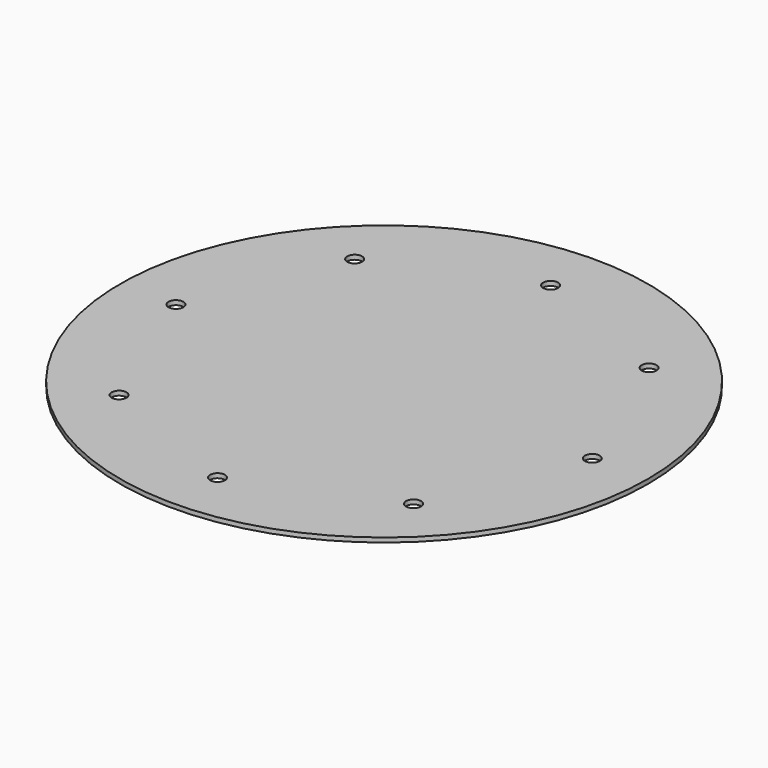
from build123d import *

# Parameters (mm, degrees)
F0_R     = 355
F0_R_2   = 10
F1_DEPTH = 6


with BuildPart() as f1:
    # F0 (on Top) → F1 (new body)
    with BuildSketch(Plane.XY):
        Circle(F0_R)
        with Locations((-197.989899, -197.989899)):
            Circle(F0_R_2, mode=Mode.SUBTRACT)
        with Locations((0, -280)):
            Circle(F0_R_2, mode=Mode.SUBTRACT)
        with Locations((197.989899, -197.989899)):
            Circle(F0_R_2, mode=Mode.SUBTRACT)
        with Locations((-280, 0)):
            Circle(F0_R_2, mode=Mode.SUBTRACT)
        with Locations((-197.989899, 197.989899)):
            Circle(F0_R_2, mode=Mode.SUBTRACT)
        with BuildLine():
            ThreePointArc((290, 0), (280, -10), (270, 0))
            ThreePointArc((270, 0), (280, 10), (290, 0))
        make_face(mode=Mode.SUBTRACT)
        with Locations((0, 280)):
            Circle(F0_R_2, mode=Mode.SUBTRACT)
        with Locations((197.989899, 197.989899)):
            Circle(F0_R_2, mode=Mode.SUBTRACT)
    extrude(amount=F1_DEPTH)


solid = f1.part
